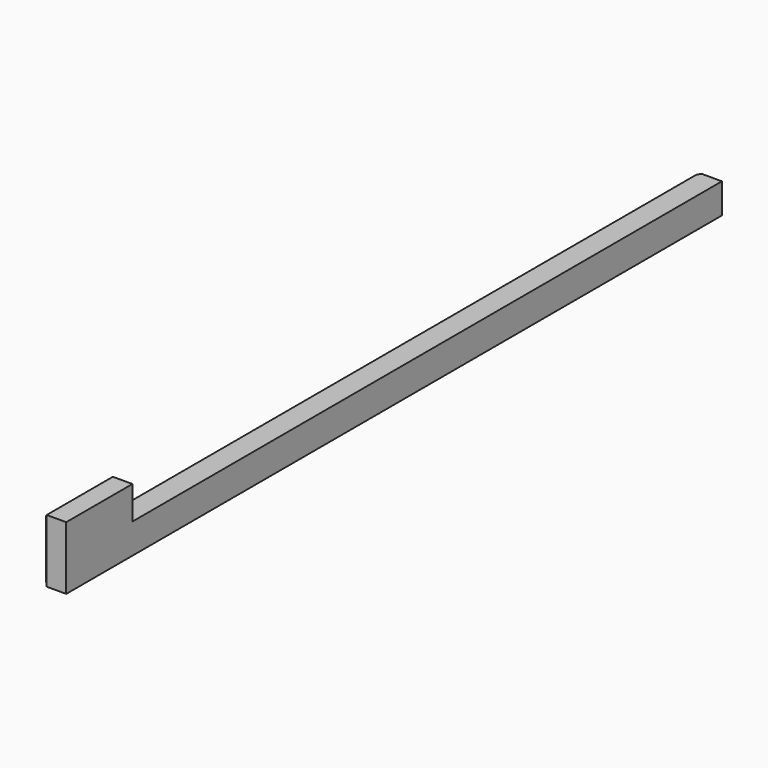
from build123d import *

# Parameters (mm, degrees)
F1_DEPTH = 19.05
F2_SIZE  = 2.54


with BuildPart() as f1:
    # F0 (on Right) → F1 (new body)
    with BuildSketch(Plane.YZ):
        Polygon((-346.075, 26.67), (-346.075, -26.67), (346.075, -26.67), (346.075, -1.27), (-276.225, -1.27), (-276.225, 26.67), align=None)
    extrude(amount=F1_DEPTH)

    # F2
    f2_edges = [f1.edges().sort_by_distance(p)[0] for p in [
        (0, -311.15, 26.67),
        (0, -346.075, 0),
        (0, 0, -26.67),
        (0, 346.075, -13.97),
    ]]
    chamfer(f2_edges, length=F2_SIZE)


solid = f1.part
